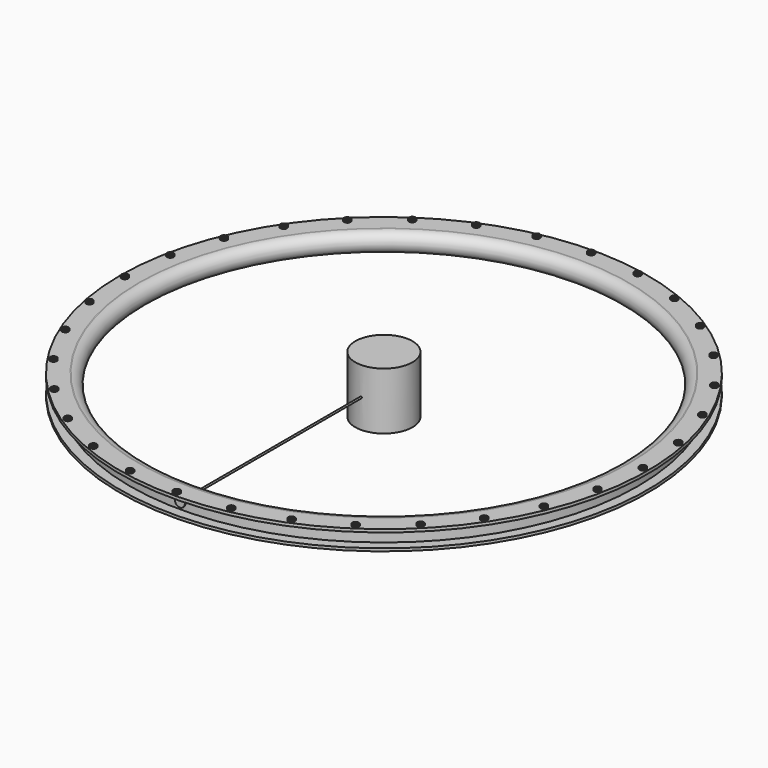
from build123d import *

# Parameters (mm, degrees)
F1_R      = 35
F2_DEPTH  = 35
F3_W      = 12
F3_H      = 3.6460709646
F3_H_2    = 3.3244666532
F5_R      = 4.0464813239
F5_R_2    = 2.5
F6_DEPTH  = 2
F7_COUNT  = 32
F8_R      = 1
F9_DEPTH  = 311.1
F10_R     = 6
F11_DEPTH = 1


with BuildPart() as f2:
    # F1 (on Top) → F2 (new body, symmetric)
    with BuildSketch(Plane.XY):
        Circle(F1_R)
    extrude(amount=F2_DEPTH, both=True)



with BuildPart() as f4:
    # F3 (on Front) → F4 (revolve)
    with BuildSketch(Plane.XZ):
        with Locations((-317, 10.1769645177)):
            Rectangle(F3_W, F3_H)
        with Locations((-317, -10.3377666734)):
            Rectangle(F3_W, F3_H_2)
        with BuildLine():
            ThreePointArc((-299, -11.9582607431), (-299.4995646481, -11.9895606449), (-300, -12))
            Line((-300, -12), (-299, -12))
            Line((-299, -12), (-299, -11.9582607431))
        make_face()
        with BuildLine():
            Line((-311, 12), (-311, 8.3539290354))
            Line((-311, 8.3539290354), (-311, -8.6755333468))
            Line((-311, -8.6755333468), (-311, -12))
            Line((-311, -12), (-300, -12))
            ThreePointArc((-300, -12), (-299.4995646481, -11.9895606449), (-299, -11.9582607431))
            ThreePointArc((-299, -11.9582607431), (-288, 0), (-299, 11.9582607431))
            ThreePointArc((-299, 11.9582607431), (-299.4995646481, 11.9895606449), (-300, 12))
            Line((-300, 12), (-311, 12))
        make_face()
    revolve(axis=Axis((0, 0, -12.4049474085), (0, 0, -1)))

    # F5 (on face) → F6 (join)
    with BuildSketch(Plane.XY.offset(12)):
        with Locations((0, -316.9144690037)):
            Circle(F5_R)
        with Locations((0, -316.9144690037)):
            Circle(F5_R_2, mode=Mode.SUBTRACT)
    extrude(amount=F6_DEPTH)

    # F7: F4 ×32 about axis
    f7_axis = Axis((0, 0, 35), (0, 0, 1))


with BuildPart() as f4_1:
    add(f4.part)
    for i in range(1, F7_COUNT):
        add(f4.part.rotate(f7_axis, i * 360 / F7_COUNT))


with BuildPart() as f2_1:
    add(f2.part)

    add(f4_1.part)  # F9 merges F4
    # F8 (on Front) → F9 (join)
    with BuildSketch(Plane.XZ):
        Circle(F8_R)
    extrude(amount=F9_DEPTH)

    # F10 (on face) → F11 (join)
    with BuildSketch(Plane.XZ.offset(311.1)):
        Circle(F10_R)
    extrude(amount=F11_DEPTH)


solid = f2_1.part
